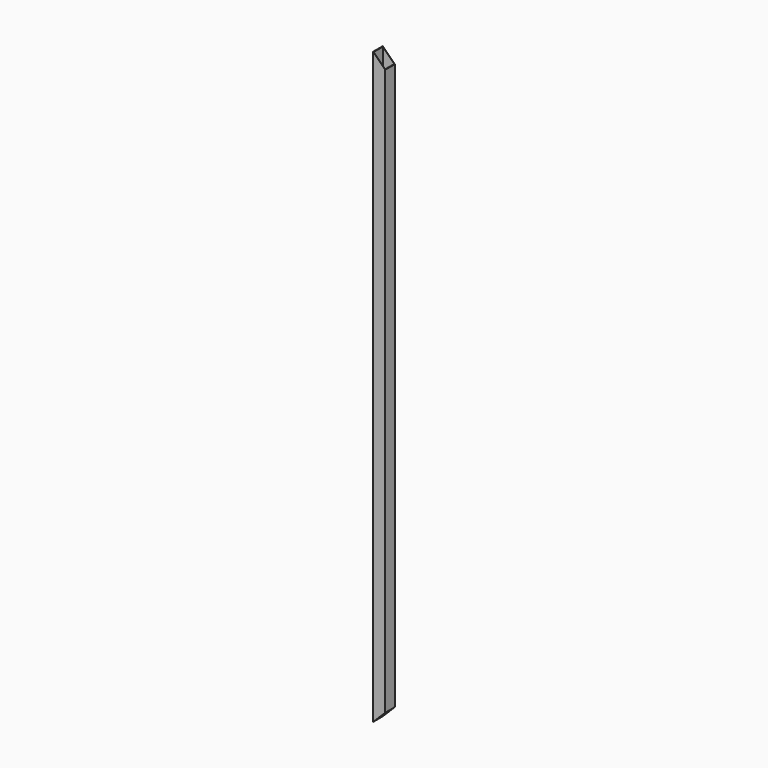
from build123d import *

# Parameters (mm, degrees)
F0_W     = 40
F0_H     = 40
F0_W_2   = 38
F0_H_2   = 38
F1_DEPTH = 977.5
F3_DEPTH = 100


with BuildPart() as f1:
    # F0 (on Top) → F1 (new body, symmetric)
    with BuildSketch(Plane.XY):
        Rectangle(F0_W, F0_H)
        Rectangle(F0_W_2, F0_H_2, mode=Mode.SUBTRACT)
    extrude(amount=F1_DEPTH, both=True)

    # F2 (on face) → F3 (cut)
    with BuildSketch(Plane.XZ.offset(20)):
        Polygon((20, -937.5), (-20, -977.5), (20, -977.5), align=None)
        Polygon((20, 977.5), (-20, 977.5), (20, 937.5), align=None)
    extrude(amount=-F3_DEPTH, mode=Mode.SUBTRACT)


solid = f1.part
